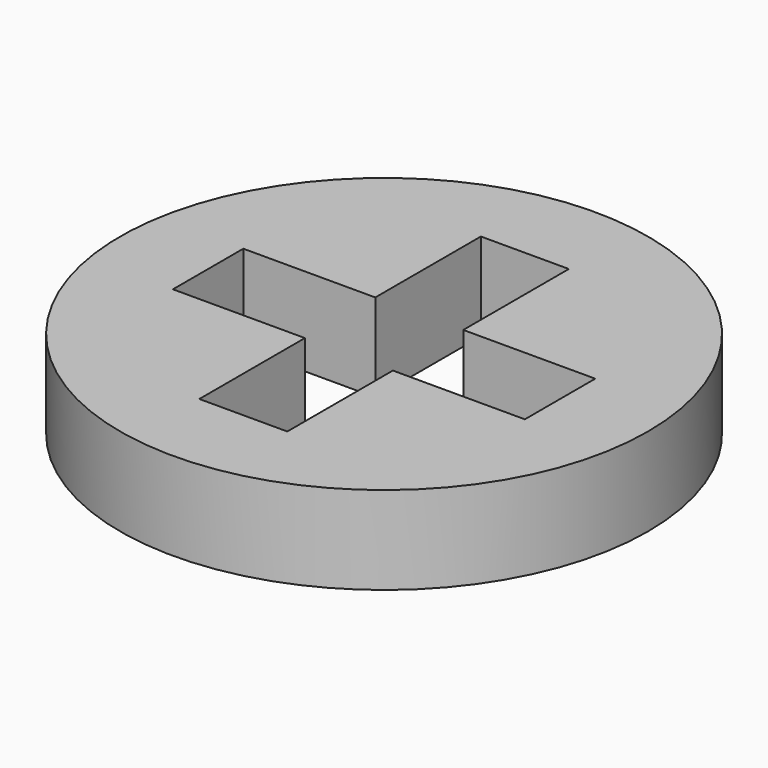
from build123d import *

# Parameters (mm, degrees)
F0_R     = 38.1
F1_DEPTH = 12.7


with BuildPart() as f1:
    # F0 (on Top) → F1 (new body)
    with BuildSketch(Plane.XY):
        Circle(F0_R)
        Polygon((6.35, 25.4), (6.35, 6.35), (25.4, 6.35), (25.4, -6.35), (6.35, -6.35), (6.35, -25.4), (-6.35, -25.4), (-6.35, -6.35), (-25.4, -6.35), (-25.4, 6.35), (-6.35, 6.35), (-6.35, 25.4), align=None, mode=Mode.SUBTRACT)
    extrude(amount=F1_DEPTH)


solid = f1.part
